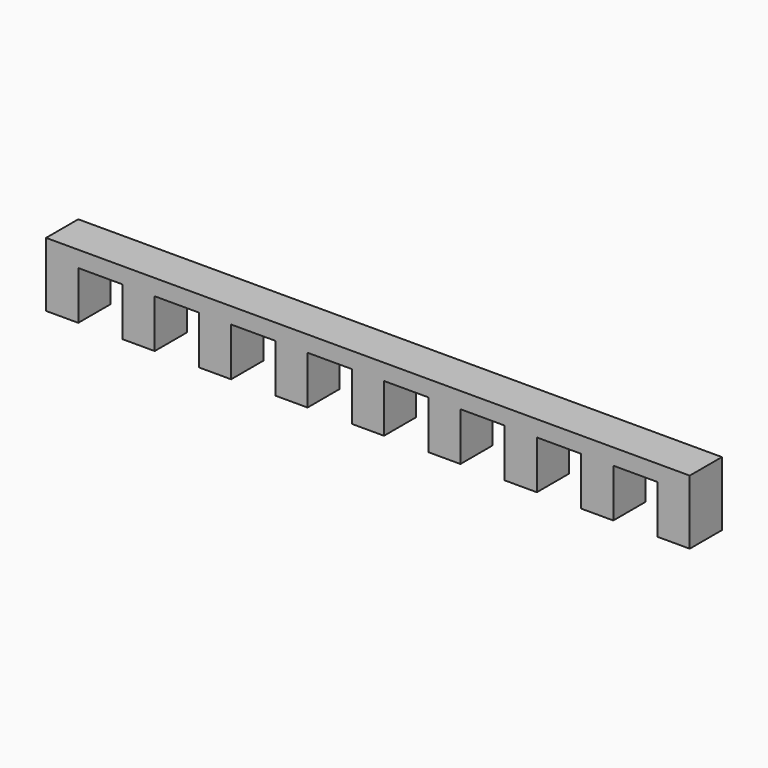
from build123d import *

# Parameters (mm, degrees)
F0_W     = 800
F0_H     = 80
F1_DEPTH = 50
F2_W     = 55
F2_H     = 60
F3_DEPTH = 50


with BuildPart() as f1:
    # F0 (on Front) → F1 (new body)
    with BuildSketch(Plane.XZ):
        with Locations((-4.780855, -40)):
            Rectangle(F0_W, F0_H)
    extrude(amount=F1_DEPTH)

    # F2 (on face) → F3 (cut)
    with BuildSketch(Plane.XZ.offset(50)):
        with Locations((-337.280855, -50)):
            Rectangle(F2_W, F2_H)
        with Locations((-242.280855, -50)):
            Rectangle(F2_W, F2_H)
        with Locations((-147.280855, -50)):
            Rectangle(F2_W, F2_H)
        with Locations((-52.280855, -50)):
            Rectangle(F2_W, F2_H)
        with Locations((42.719145, -50)):
            Rectangle(F2_W, F2_H)
        with Locations((137.719145, -50)):
            Rectangle(F2_W, F2_H)
        with Locations((232.719145, -50)):
            Rectangle(F2_W, F2_H)
        with Locations((327.719145, -50)):
            Rectangle(F2_W, F2_H)
    extrude(amount=-F3_DEPTH, mode=Mode.SUBTRACT)


solid = f1.part
